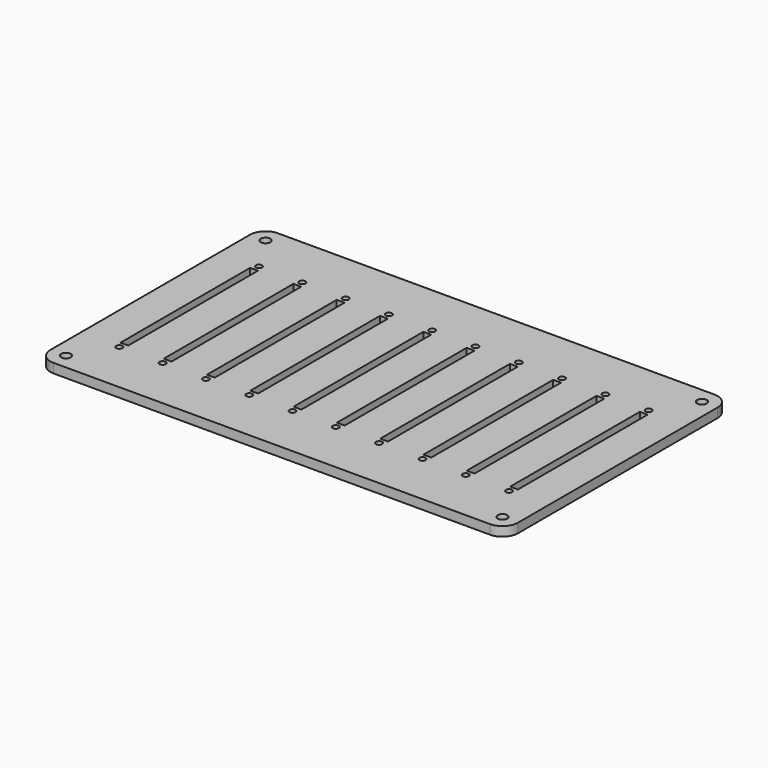
from build123d import *

# Parameters (mm, degrees)
PAD_DEPTH           = 3
SKETCH002_R         = 1
SKETCH002_W         = 2.5
SKETCH002_H         = 52
POCKET_DEPTH        = 3.001
LINEARPATTERN_COUNT = 10
LINEARPATTERN_PITCH = 13.888889
SKETCH003_R         = 1.55
POCKET001_DEPTH     = 3.001


with BuildPart() as part:
    # Sketch → Pad (new body)
    with BuildSketch(Plane.XY):
        with BuildLine():
            Line((-70, 45), (70, 45))
            ThreePointArc((75, 40), (73.535534, 43.535534), (70, 45))
            Line((75, 40), (75, -40))
            ThreePointArc((70, -45), (73.535534, -43.535534), (75, -40))
            Line((70, -45), (-70, -45))
            ThreePointArc((-75, -40), (-73.535534, -43.535534), (-70, -45))
            Line((-75, -40), (-75, 40))
            ThreePointArc((-70, 45), (-73.535534, 43.535534), (-75, 40))
        make_face()
    extrude(amount=PAD_DEPTH)

    # Sketch002 → Pocket (cut, through all)
    with BuildSketch(Plane(origin=(-62.5, 0, 0), x_dir=(1, 0, 0), z_dir=(0, 0, 1))):
        with Locations((0, 28)):
            Circle(SKETCH002_R)
        with Locations((0, -28)):
            Circle(SKETCH002_R)
        Rectangle(SKETCH002_W, SKETCH002_H)
    pocket = extrude(amount=POCKET_DEPTH, mode=Mode.SUBTRACT)

    # LinearPattern: Pocket ×10
    with Locations(*[(i * LINEARPATTERN_PITCH, 0, 0) for i in range(1, LINEARPATTERN_COUNT)]):
        add(pocket, mode=Mode.SUBTRACT)

    # Sketch003 → Pocket001 (cut, through all)
    with BuildSketch(Plane.XY):
        with Locations((-70, 40)):
            Circle(SKETCH003_R)
        with Locations((-70, -40)):
            Circle(SKETCH003_R)
        with Locations((70, 40)):
            Circle(SKETCH003_R)
        with Locations((70, -40)):
            Circle(SKETCH003_R)
    extrude(amount=POCKET001_DEPTH, mode=Mode.SUBTRACT)


solid = part.part
